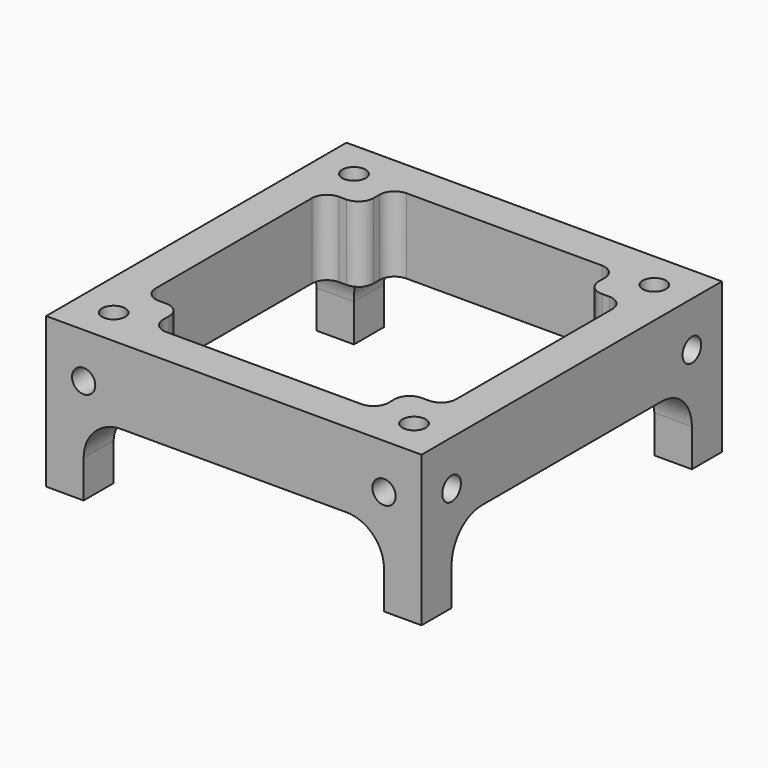
from build123d import *

# Parameters (mm, degrees)
SKETCH041_W             = 50
SKETCH041_H             = 50
PAD007_DEPTH            = 20
POCKET035_DEPTH         = 20.001
POCKET036_DEPTH         = 50.001
POCKET037_DEPTH         = 50.001
SKETCH045_R             = 1.55
POCKET038_DEPTH         = 5
SKETCH046_R             = 1.55
POCKET039_DEPTH         = 3
SKETCH047_R             = 1.55
POCKET040_DEPTH         = 3
BODY008_PLACEMENT_ANGLE = 90


with BuildPart() as part:
    # Sketch041 → Pad007 (new body)
    with BuildSketch(Plane.XY):
        Rectangle(SKETCH041_W, SKETCH041_H)
    extrude(amount=PAD007_DEPTH)

    # Sketch042 (on Face6 of Pad007) → Pocket035 (cut, through all)
    with BuildSketch(Plane.XY.offset(20)):
        with BuildLine():
            Line((-18, 15), (-17, 15))
            ThreePointArc((-17, 15), (-15.585786, 15.585786), (-15, 17))
            Line((-15, 17), (-15, 18))
            ThreePointArc((-13, 20), (-14.414214, 19.414214), (-15, 18))
            Line((-13, 20), (13, 20))
            ThreePointArc((15, 18), (14.414214, 19.414214), (13, 20))
            Line((15, 18), (15, 17))
            ThreePointArc((15, 17), (15.585786, 15.585786), (17, 15))
            Line((17, 15), (18, 15))
            ThreePointArc((20, 13), (19.414214, 14.414214), (18, 15))
            Line((20, 13), (20, -13))
            ThreePointArc((18, -15), (19.414214, -14.414214), (20, -13))
            Line((18, -15), (17, -15))
            ThreePointArc((17, -15), (15.585786, -15.585786), (15, -17))
            Line((15, -17), (15, -18))
            ThreePointArc((13, -20), (14.414214, -19.414214), (15, -18))
            Line((13, -20), (-13, -20))
            ThreePointArc((-15, -18), (-14.414214, -19.414214), (-13, -20))
            Line((-15, -18), (-15, -17))
            ThreePointArc((-15, -17), (-15.585786, -15.585786), (-17, -15))
            Line((-17, -15), (-18, -15))
            ThreePointArc((-20, -13), (-19.414214, -14.414214), (-18, -15))
            Line((-20, -13), (-20, 13))
            ThreePointArc((-18, 15), (-19.414214, 14.414214), (-20, 13))
        make_face()
    extrude(amount=-POCKET035_DEPTH, mode=Mode.SUBTRACT)

    # Sketch043 (on Face3 of Pocket035) → Pocket036 (cut, through all)
    with BuildSketch(Plane.YZ.offset(25)):
        with BuildLine():
            Line((-15, 10), (15, 10))
            ThreePointArc((20, 5), (18.535534, 8.535534), (15, 10))
            Line((20, 5), (20, 0))
            Line((20, 0), (-20, 0))
            Line((-20, 0), (-20, 5))
            ThreePointArc((-15, 10), (-18.535534, 8.535534), (-20, 5))
        make_face()
    extrude(amount=-POCKET036_DEPTH, mode=Mode.SUBTRACT)

    # Sketch044 (on Face6 of Pocket035) → Pocket037 (cut, through all)
    with BuildSketch(Plane.XZ.offset(25)):
        with BuildLine():
            Line((-15, 10), (15, 10))
            ThreePointArc((20, 5), (18.535534, 8.535534), (15, 10))
            Line((20, 5), (20, 0))
            Line((20, 0), (-20, 0))
            Line((-20, 0), (-20, 5))
            ThreePointArc((-15, 10), (-18.535534, 8.535534), (-20, 5))
        make_face()
    extrude(amount=-POCKET037_DEPTH, mode=Mode.SUBTRACT)

    # Sketch045 → Pocket038 (cut)
    with BuildSketch(Plane.XY.offset(20)):
        with Locations((-20, 20)):
            Circle(SKETCH045_R)
        with Locations((20, 20)):
            Circle(SKETCH045_R)
        with Locations((20, -20)):
            Circle(SKETCH045_R)
        with Locations((-20, -20)):
            Circle(SKETCH045_R)
    extrude(amount=-POCKET038_DEPTH, mode=Mode.SUBTRACT)

    # Sketch046 (on Face27 of Pocket038) → Pocket039 (cut)
    with BuildSketch(Plane.XZ.offset(25)):
        with Locations((-20, 14)):
            Circle(SKETCH046_R)
        with Locations((20, 14)):
            Circle(SKETCH046_R)
    extrude(amount=-POCKET039_DEPTH, mode=Mode.SUBTRACT)

    # Sketch047 (on Face11 of Pocket039) → Pocket040 (cut)
    with BuildSketch(Plane(origin=(-25, 0, 0), x_dir=(0, -1, 0), z_dir=(-1, 0, 0))):
        with Locations((-20, 14)):
            Circle(SKETCH047_R)
        with Locations((20, 14)):
            Circle(SKETCH047_R)
    extrude(amount=-POCKET040_DEPTH, mode=Mode.SUBTRACT)


with BuildPart() as part_1:
    # Body008 placement: moved
    add(part.part.moved(Location((145, 25, 0))).rotate(Axis((145, 25, 0), (0, 0, 1)), BODY008_PLACEMENT_ANGLE))


solid = part_1.part
